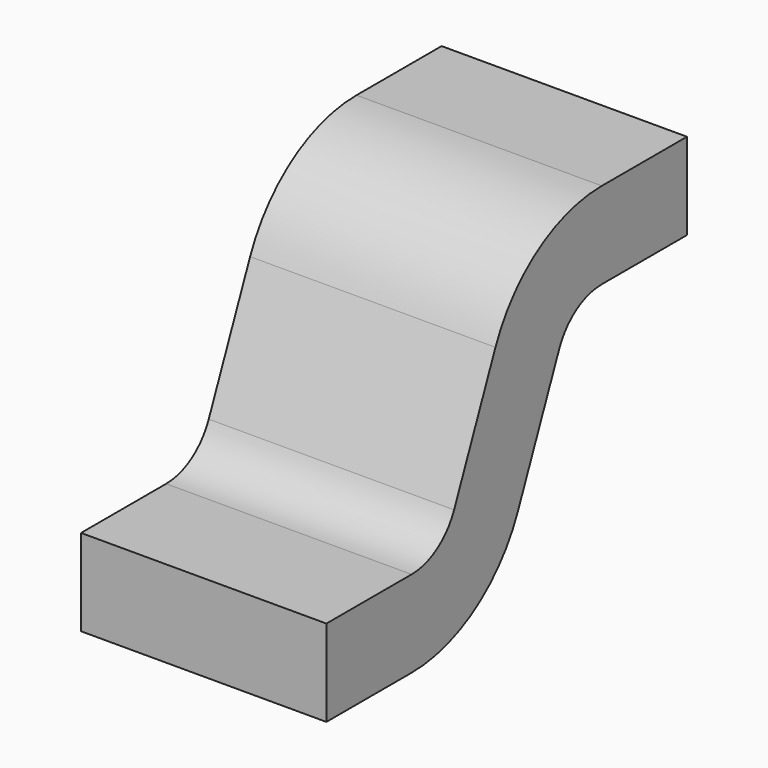
from build123d import *

# Parameters (mm, degrees)
PAD002_DEPTH = 0.2125
FILLET002_R  = 0.1
FILLET003_R  = 0.25


with BuildPart() as part:
    # Sketch002 → Pad002 (new body, symmetric)
    with BuildSketch(Plane.YZ):
        Polygon((-0.469369, 0.425), (-0.72, 0.425), (-0.9, 0), (-1.25, 0), (-1.25, 0.15), (-0.999369, 0.15), (-0.819369, 0.575), (-0.469369, 0.575), align=None)
    extrude(amount=PAD002_DEPTH, both=True)

    # Fillet002
    fillet002_edges = [part.edges().sort_by_distance(p)[0] for p in [
        (0, -0.999369, 0.15),
        (0, -0.72, 0.425),
    ]]
    fillet(fillet002_edges, radius=FILLET002_R)

    # Fillet003
    fillet003_edges = [part.edges().sort_by_distance(p)[0] for p in [
        (0, -0.9, 0),
        (0, -0.819369, 0.575),
    ]]
    fillet(fillet003_edges, radius=FILLET003_R)


with BuildPart() as part_1:
    # Body002 placement: moved
    add(part.part.moved(Location((-0.8, 0, 0))))


solid = part_1.part
